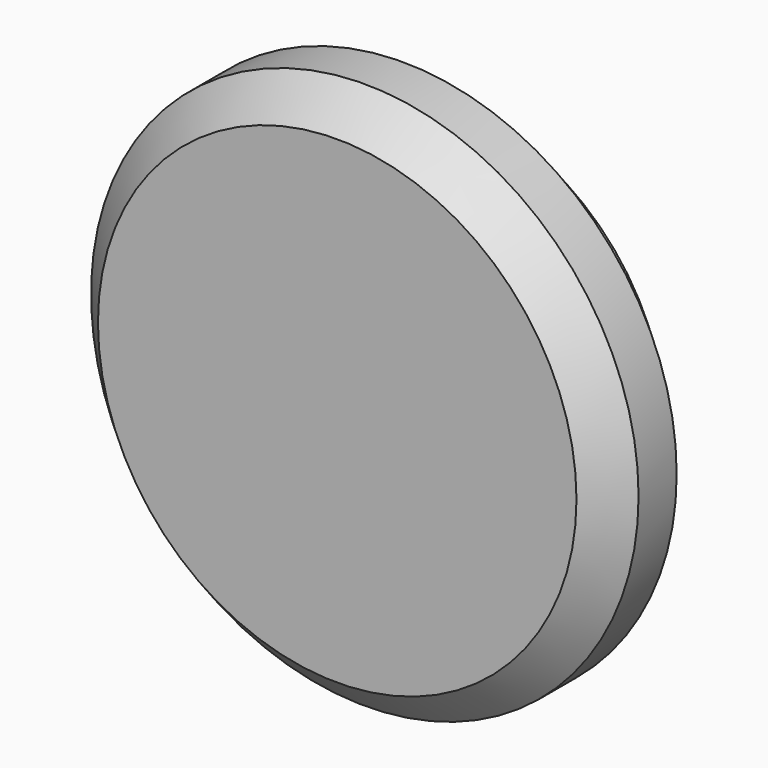
from build123d import *

# Parameters (mm, degrees)
F0_R     = 12.7
F0_R_2   = 10.16
F0_R_3   = 6.731
F1_DEPTH = 6.35
F2_DEPTH = 2.54
F3_DEPTH = 1.27
F4_SIZE  = 1.6002


with BuildPart() as f1:
    # F0 (on Front) → F1 (new body)
    with BuildSketch(Plane.XZ):
        Circle(F0_R)
        Circle(F0_R_2, mode=Mode.SUBTRACT)
        Circle(F0_R_2)
        Circle(F0_R_3, mode=Mode.SUBTRACT)
        Circle(F0_R_3)
    extrude(amount=F1_DEPTH)

    # F0 (on Front) → F2 (cut)
    with BuildSketch(Plane.XZ):
        Circle(F0_R)
        Circle(F0_R_2, mode=Mode.SUBTRACT)
    extrude(amount=F2_DEPTH, mode=Mode.SUBTRACT)

    # F0 (on Front) → F3 (cut)
    with BuildSketch(Plane.XZ):
        Circle(F0_R_3)
    extrude(amount=F3_DEPTH, mode=Mode.SUBTRACT)

    # F4
    f4_edges = [f1.edges().sort_by_distance(p)[0] for p in [
        (-12.7, -6.35, 0),
    ]]
    chamfer(f4_edges, length=F4_SIZE)


solid = f1.part
